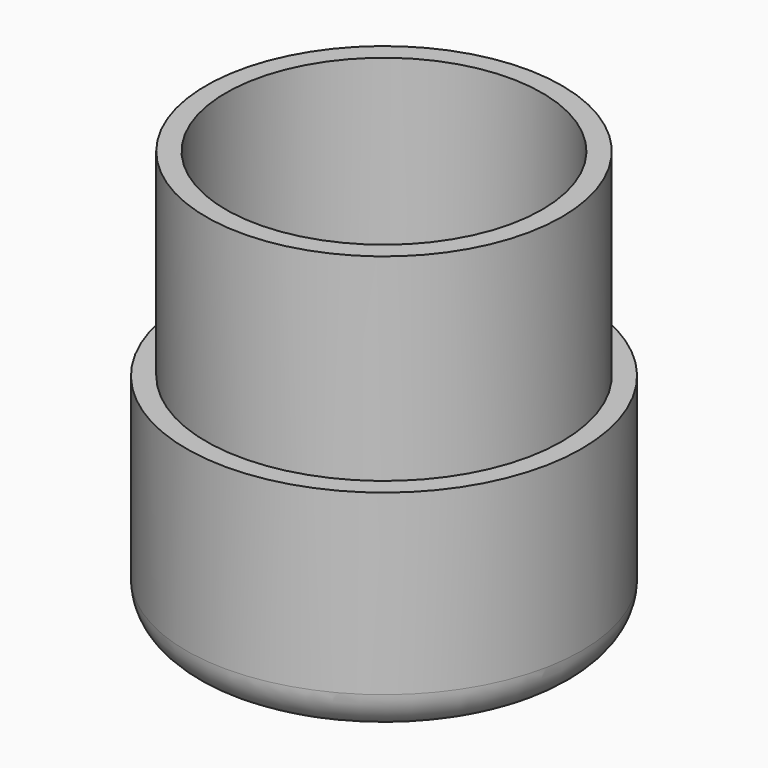
from build123d import *

# Parameters (mm, degrees)
F0_R     = 50
F0_R_2   = 45
F1_DEPTH = 50
F0_R_3   = 40
F2_DEPTH = 100
F3_DEPTH = 5
F4_R     = 10


with BuildPart() as f1:
    # F0 (on Top) → F1 (new body)
    with BuildSketch(Plane.XY):
        Circle(F0_R)
        Circle(F0_R_2, mode=Mode.SUBTRACT)
    extrude(amount=F1_DEPTH)

    # F0 (on Top) → F2 (join)
    with BuildSketch(Plane.XY):
        Circle(F0_R_2)
        Circle(F0_R_3, mode=Mode.SUBTRACT)
    extrude(amount=F2_DEPTH)

    # F0 (on Top) → F3 (join)
    with BuildSketch(Plane.XY):
        Circle(F0_R)
        Circle(F0_R_2, mode=Mode.SUBTRACT)
        Circle(F0_R_2)
        Circle(F0_R_3, mode=Mode.SUBTRACT)
        Circle(F0_R_3)
    extrude(amount=-F3_DEPTH)

    # F4
    f4_edges = [f1.edges().sort_by_distance(p)[0] for p in [
        (-50, 0, -5),
    ]]
    fillet(f4_edges, radius=F4_R)


solid = f1.part
